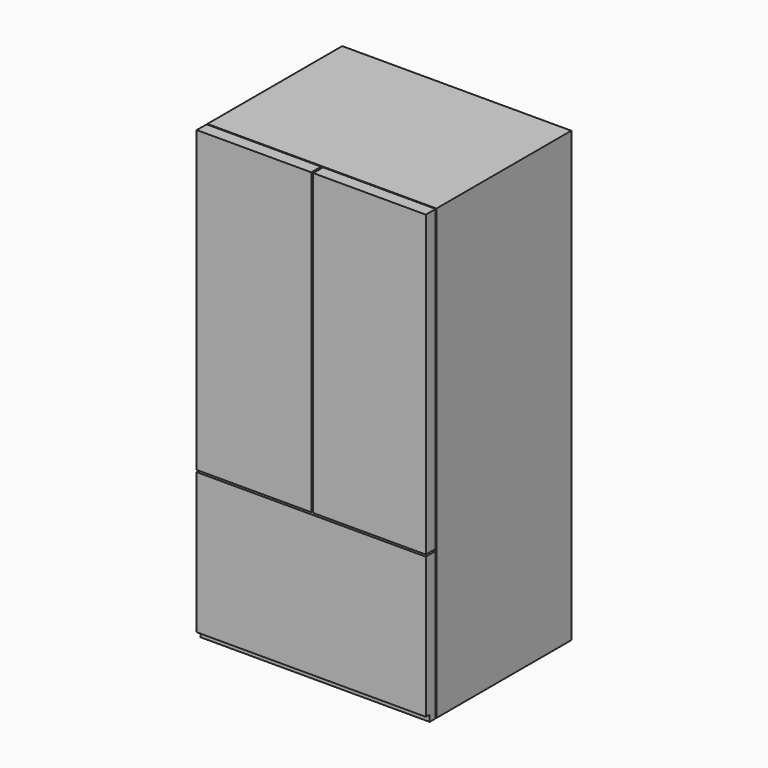
from build123d import *

# Parameters (mm, degrees)
F0_W     = 720.725
F0_H     = 1778
F1_DEPTH = 454.025
F3_W     = 908.05
F3_H     = 1778
F3_W_2   = 857.25
F3_H_2   = 1727.2
F4_DEPTH = 1.905
F7_DEPTH = 50.8
F5_W     = 908.05
F5_H     = 25.4
F8_DEPTH = 19.05


with BuildPart() as f1:
    # F0 (on Right) → F1 (new body, symmetric)
    with BuildSketch(Plane.YZ):
        with Locations((-360.3625, 889)):
            Rectangle(F0_W, F0_H)
    extrude(amount=F1_DEPTH, both=True)

    # F3 (on offset) → F4 (cut, symmetric)
    with BuildSketch(Plane.XZ.offset(669.925)):
        with Locations((0, 889)):
            Rectangle(F3_W, F3_H)
        with Locations((0, 889)):
            Rectangle(F3_W_2, F3_H_2, mode=Mode.SUBTRACT)
    extrude(amount=F4_DEPTH, both=True, mode=Mode.SUBTRACT)

    # F6 (on face) → F7 (cut)
    with BuildSketch(Plane.XZ.offset(720.725)):
        Polygon((7.62, 1778), (0, 1778), (0, 591.82), (-480.0681769848, 591.82), (-480.0681769848, 584.2), (491.1567866802, 584.2), (491.1567866802, 591.82), (7.62, 591.82), align=None)
    extrude(amount=-F7_DEPTH, mode=Mode.SUBTRACT)

    # F5 (on face) → F8 (cut)
    with BuildSketch(Plane.XZ.offset(720.725)):
        with Locations((0, 12.7)):
            Rectangle(F5_W, F5_H)
    extrude(amount=-F8_DEPTH, mode=Mode.SUBTRACT)


solid = f1.part
